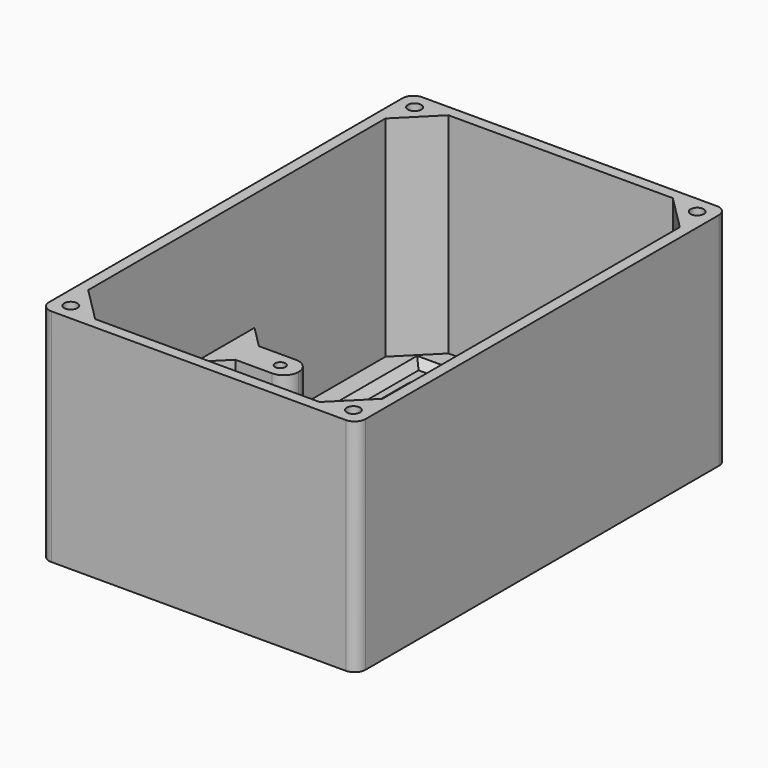
from build123d import *

# Parameters (mm, degrees)
SKETCH_W            = 80
SKETCH_H            = 120
PAD_DEPTH           = 3
SKETCH001_W         = 70
SKETCH001_H         = 110
POCKET_DEPTH        = 2
SKETCH002_W         = 62
SKETCH002_H         = 98.5
POCKET001_DEPTH     = 5
FILLET_R            = 2.54
CHAMFER_SIZE        = 1.99
SKETCH003_W         = 126
SKETCH003_H         = 60
PAD001_DEPTH        = 3
SKETCH004_W         = 80
SKETCH004_H         = 60
PAD002_DEPTH        = 3
CHAMFER001_SIZE     = 9.5
SKETCH005_R         = 1.8
POCKET002_DEPTH     = 8
FILLET001_R         = 2.99
SKETCH006_W         = 8
SKETCH006_H         = 10
PAD003_DEPTH        = 10
SKETCH007_W         = 8
SKETCH007_H         = 10
PAD004_DEPTH        = 20
SKETCH008_R         = 1.4
POCKET003_DEPTH     = 7
SKETCH009_R         = 1.4
POCKET004_DEPTH     = 7
CHAMFER002_SIZE     = 9.99
CHAMFER003_SIZE     = 9.99
CHAMFER004_SIZE     = 1.49
CHAMFER005_SIZE     = 6
CHAMFER005_FACE36_R = 1.4
POCKET005_DEPTH     = 2
POCKET005_FACE45_R  = 1.4
POCKET006_DEPTH     = 2
POCKET006_FACE2_R   = 1.4
POCKET007_DEPTH     = 2
POCKET007_FACE55_R  = 1.4
POCKET008_DEPTH     = 2
FILLET002_R         = 3.99


with BuildPart() as part:
    # Sketch → Pad (new body)
    with BuildSketch(Plane.XY):
        Rectangle(SKETCH_W, SKETCH_H)
    extrude(amount=PAD_DEPTH)

    # Sketch001 (on Face6 of Pad) → Pocket (cut)
    with BuildSketch(Plane.XY.offset(3)):
        Rectangle(SKETCH001_W, SKETCH001_H)
    extrude(amount=-POCKET_DEPTH, mode=Mode.SUBTRACT)

    # Sketch002 (on Face11 of Pocket) → Pocket001 (cut)
    with BuildSketch(Plane.XY.offset(1)):
        Rectangle(SKETCH002_W, SKETCH002_H)
    extrude(amount=-POCKET001_DEPTH, mode=Mode.SUBTRACT)

    # Fillet
    fillet_edges = [part.edges().sort_by_distance(p)[0] for p in [
        (-31, 49.25, 0.5),
        (31, 49.25, 0.5),
        (31, -49.25, 0.5),
        (-31, -49.25, 0.5),
    ]]
    fillet(fillet_edges, radius=FILLET_R)

    # Chamfer
    chamfer_edges = [part.edges().sort_by_distance(p)[0] for p in [
        (0, 55, 1),
        (35, 0, 1),
        (0, -55, 1),
        (-35, 0, 1),
    ]]
    chamfer(chamfer_edges, length=CHAMFER_SIZE)

    # Sketch003 (on Face22 of Chamfer) → Pad001 (join)
    with BuildSketch(Plane.YZ.offset(40)):
        with Locations((0, 30)):
            Rectangle(SKETCH003_W, SKETCH003_H)
    pad001 = extrude(amount=PAD001_DEPTH)

    # Mirrored: Pad001 across YZ
    add(pad001.mirror(Plane.YZ))

    # Sketch004 (on Face9 of Mirrored) → Pad002 (join)
    with BuildSketch(Plane(origin=(0, 60, 0), x_dir=(-1, 0, 0), z_dir=(0, 1, 0))):
        with Locations((0, 30)):
            Rectangle(SKETCH004_W, SKETCH004_H)
    pad002 = extrude(amount=PAD002_DEPTH)

    # Mirrored001: Pad002 across XZ
    add(pad002.mirror(Plane.XZ))

    # Chamfer001
    chamfer001_edges = [part.edges().sort_by_distance(p)[0] for p in [
        (-40, -60, 31.5),
        (-40, 60, 31.5),
        (40, 60, 31.5),
        (40, -60, 31.5),
    ]]
    chamfer(chamfer001_edges, length=CHAMFER001_SIZE)

    # Sketch005 (on Face4 of Chamfer001) → Pocket002 (cut)
    with BuildSketch(Plane.XY.offset(60)):
        with Locations((-38.403806, -58.403806)):
            Circle(SKETCH005_R)
        with Locations((38.403806, -58.403806)):
            Circle(SKETCH005_R)
    pocket002 = extrude(amount=-POCKET002_DEPTH, mode=Mode.SUBTRACT)

    # Mirrored002: Pocket002 across XZ
    add(pocket002.mirror(Plane.XZ), mode=Mode.SUBTRACT)

    # Fillet001
    fillet001_edges = [part.edges().sort_by_distance(p)[0] for p in [
        (-43, 63, 30),
        (-43, -63, 30),
        (43, -63, 30),
        (43, 63, 30),
    ]]
    fillet(fillet001_edges, radius=FILLET001_R)

    # Sketch006 (on Face21 of Fillet001) → Pad003 (join)
    with BuildSketch(Plane(origin=(0, -60, 0), x_dir=(-1, 0, 0), z_dir=(0, 1, 0))):
        with Locations((-25, 25)):
            Rectangle(SKETCH006_W, SKETCH006_H)
        with Locations((25, 25)):
            Rectangle(SKETCH006_W, SKETCH006_H)
    extrude(amount=PAD003_DEPTH)

    # Sketch007 (on Face10 of Pad003) → Pad004 (join)
    with BuildSketch(Plane.YZ.offset(-40)):
        with Locations((-4, 25)):
            Rectangle(SKETCH007_W, SKETCH007_H)
    pad004 = extrude(amount=PAD004_DEPTH)

    # Sketch008 (on Face41 of Pad004) → Pocket003 (cut)
    with BuildSketch(Plane.XY.offset(30)):
        with Locations((-25, -54)):
            Circle(SKETCH008_R)
    pocket003 = extrude(amount=-POCKET003_DEPTH, mode=Mode.SUBTRACT)

    # Mirrored003: Pocket003 across Sketch008 V_Axis
    add(pocket003.mirror(Plane(origin=(0, 0, 30), x_dir=(0, 0, 1), z_dir=(1, 0, 0))), mode=Mode.SUBTRACT)

    # Sketch009 (on Face26 of Mirrored003) → Pocket004 (cut)
    with BuildSketch(Plane.XY.offset(30)):
        with Locations((-25, -4)):
            Circle(SKETCH009_R)
    pocket004 = extrude(amount=-POCKET004_DEPTH, mode=Mode.SUBTRACT)

    # Mirrored004: Pad004 across YZ
    add(pad004.mirror(Plane.YZ))

    # Mirrored005: Pocket004 across Sketch009 V_Axis
    add(pocket004.mirror(Plane(origin=(0, 0, 30), x_dir=(0, 0, 1), z_dir=(1, 0, 0))), mode=Mode.SUBTRACT)

    # Chamfer002
    chamfer002_edges = [part.edges().sort_by_distance(p)[0] for p in [
        (25, -60, 20),
        (-25, -60, 20),
    ]]
    chamfer(chamfer002_edges, length=CHAMFER002_SIZE)

    # Chamfer003
    chamfer003_edges = [part.edges().sort_by_distance(p)[0] for p in [
        (40, -4, 20),
        (-40, -4, 20),
    ]]
    chamfer(chamfer003_edges, length=CHAMFER003_SIZE)

    # Chamfer004
    chamfer004_edges = [part.edges().sort_by_distance(p)[0] for p in [
        (29, -60, 15.005),
        (29, -60, 25),
        (-29, -60, 15.005),
        (-21, -60, 15.005),
        (21, -60, 15.005),
    ]]
    chamfer(chamfer004_edges, length=CHAMFER004_SIZE)

    # Chamfer005
    chamfer005_edges = [part.edges().sort_by_distance(p)[0] for p in [
        (-40, 0, 15.005),
        (-40, -8, 15.005),
        (40, -8, 15.005),
        (40, 0, 15.005),
    ]]
    chamfer(chamfer005_edges, length=CHAMFER005_SIZE)

    # Chamfer005 Face36 → Pocket005 (cut)
    with BuildSketch(Plane(origin=(31.679222, -4, 30), x_dir=(0, 1, 0), z_dir=(0, 0, 1))):
        Polygon((-4, 11.679222), (-4, -2.320778), (-10, -8.320778), (-4, -8.320778), (4, -8.320778), (10, -8.320778), (4, -2.320778), (4, 11.679222), align=None)
        with Locations((0, 6.679222)):
            Circle(CHAMFER005_FACE36_R, mode=Mode.SUBTRACT)
    extrude(amount=-POCKET005_DEPTH, mode=Mode.SUBTRACT)

    # Pocket005 Face45 → Pocket006 (cut)
    with BuildSketch(Plane(origin=(25, -55.212396, 30), x_dir=(0, 1, 0), z_dir=(0, 0, 1))):
        Polygon((-3.297604, -4), (5.212396, -4), (5.212396, 4), (-3.297604, 4), (-4.787604, 5.49), (-4.787604, 4), (-4.787604, -4), (-4.787604, -5.49), align=None)
        with Locations((1.212396, 0)):
            Circle(POCKET005_FACE45_R, mode=Mode.SUBTRACT)
    extrude(amount=-POCKET006_DEPTH, mode=Mode.SUBTRACT)

    # Pocket006 Face2 → Pocket007 (cut)
    with BuildSketch(Plane(origin=(-31.679222, -4, 30), x_dir=(0, 1, 0), z_dir=(0, 0, 1))):
        Polygon((-4, 2.320778), (-4, -11.679222), (4, -11.679222), (4, 2.320778), (10, 8.320778), (4, 8.320778), (-4, 8.320778), (-10, 8.320778), align=None)
        with Locations((0, -6.679222)):
            Circle(POCKET006_FACE2_R, mode=Mode.SUBTRACT)
    extrude(amount=-POCKET007_DEPTH, mode=Mode.SUBTRACT)

    # Pocket007 Face55 → Pocket008 (cut)
    with BuildSketch(Plane(origin=(-25, -55.212396, 30), x_dir=(0, 1, 0), z_dir=(0, 0, 1))):
        Polygon((-3.297604, -4), (5.212396, -4), (5.212396, 4), (-3.297604, 4), (-4.787604, 5.49), (-4.787604, 4), (-4.787604, -4), (-4.787604, -5.49), align=None)
        with Locations((1.212396, 0)):
            Circle(POCKET007_FACE55_R, mode=Mode.SUBTRACT)
    extrude(amount=-POCKET008_DEPTH, mode=Mode.SUBTRACT)

    # Fillet002
    fillet002_edges = [part.edges().sort_by_distance(p)[0] for p in [
        (20, 0, 24),
        (20, -8, 24),
        (-20, -8, 24),
        (-20, 0, 24),
        (-29, -50, 24),
        (-21, -50, 24),
        (21, -50, 24),
        (29, -50, 24),
    ]]
    fillet(fillet002_edges, radius=FILLET002_R)


solid = part.part
